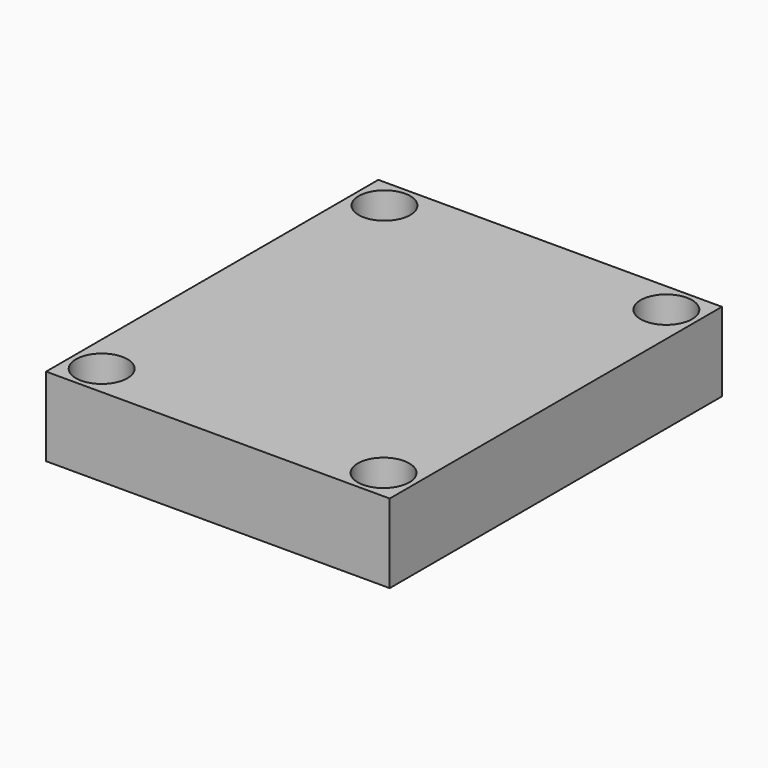
from build123d import *

# Parameters (mm, degrees)
SKETCH_W     = 30.48
SKETCH_H     = 36.83
PAD_DEPTH    = 7
SKETCH001_R  = 2.286
POCKET_DEPTH = 7


with BuildPart() as part:
    # Sketch → Pad (new body)
    with BuildSketch(Plane.XY):
        Rectangle(SKETCH_W, SKETCH_H)
    extrude(amount=PAD_DEPTH)

    # Sketch001 (on Face6 of Pad) → Pocket (cut)
    with BuildSketch(Plane.XY.offset(7)):
        with Locations((-12.5, 15.675)):
            Circle(SKETCH001_R)
        with Locations((12.5, 15.675)):
            Circle(SKETCH001_R)
        with Locations((12.5, -15.675)):
            Circle(SKETCH001_R)
        with Locations((-12.5, -15.675)):
            Circle(SKETCH001_R)
    extrude(amount=-POCKET_DEPTH, mode=Mode.SUBTRACT)


solid = part.part
